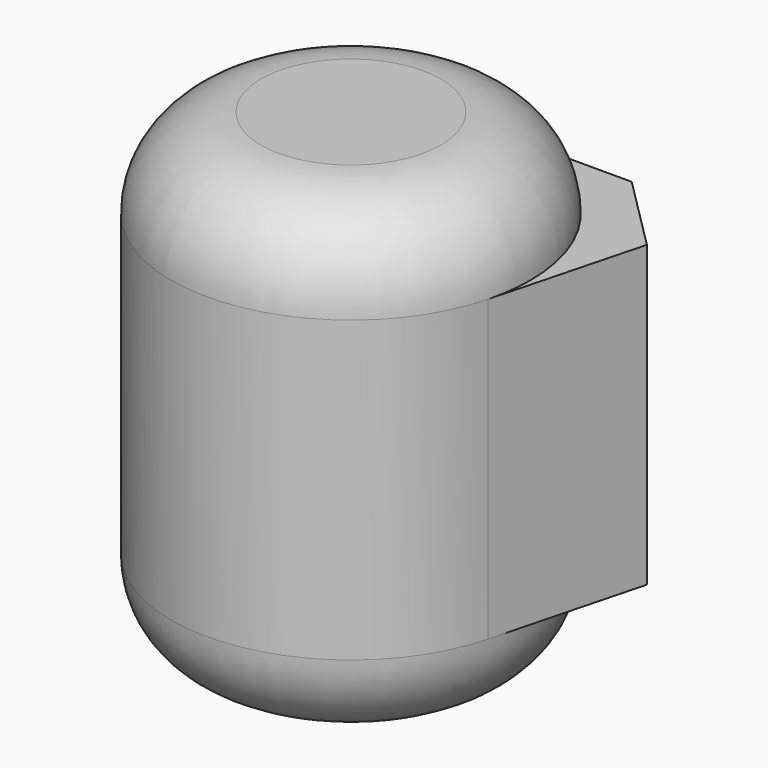
from build123d import *

# Parameters (mm, degrees)
F0_R     = 300
F1_DEPTH = 800
F2_R     = 150
F4_START = -150
F4_DEPTH = 500


with BuildPart() as f1:
    # F0 (on Top) → F1 (new body)
    with BuildSketch(Plane.XY):
        Circle(F0_R)
    extrude(amount=F1_DEPTH)

    # F2
    f2_edges = [f1.edges().sort_by_distance(p)[0] for p in [
        (-300, 0, 800),
        (-300, 0, 0),
    ]]
    fillet(f2_edges, radius=F2_R)

    # F3 (on face) → F4 (join)
    with BuildSketch(Plane.XY.offset(800).offset(F4_START)):
        with BuildLine():
            Line((229.2893218813, 300), (0, 300))
            ThreePointArc((0, 300), (114.8050297095, 277.1638597534), (212.132034356, 212.132034356))
            Line((212.132034356, 212.132034356), (264.6446609407, 264.6446609407))
            Line((264.6446609407, 264.6446609407), (229.2893218813, 300))
        make_face()
        with BuildLine():
            ThreePointArc((212.132034356, 212.132034356), (277.1638597534, 114.8050297095), (300, 0))
            Line((300, 0), (300, 229.2893218813))
            Line((300, 229.2893218813), (264.6446609407, 264.6446609407))
            Line((264.6446609407, 264.6446609407), (212.132034356, 212.132034356))
        make_face()
        with BuildLine():
            Line((300, 229.2893218813), (300, 0))
            ThreePointArc((300, 0), (297.5110648624, -38.5637949955), (290.0855581037, -76.4877047615))
            Line((290.0855581037, -76.4877047615), (355.9564720177, 173.3328498637))
            Line((355.9564720177, 173.3328498637), (300, 229.2893218813))
        make_face()
    extrude(amount=-F4_DEPTH)


solid = f1.part
